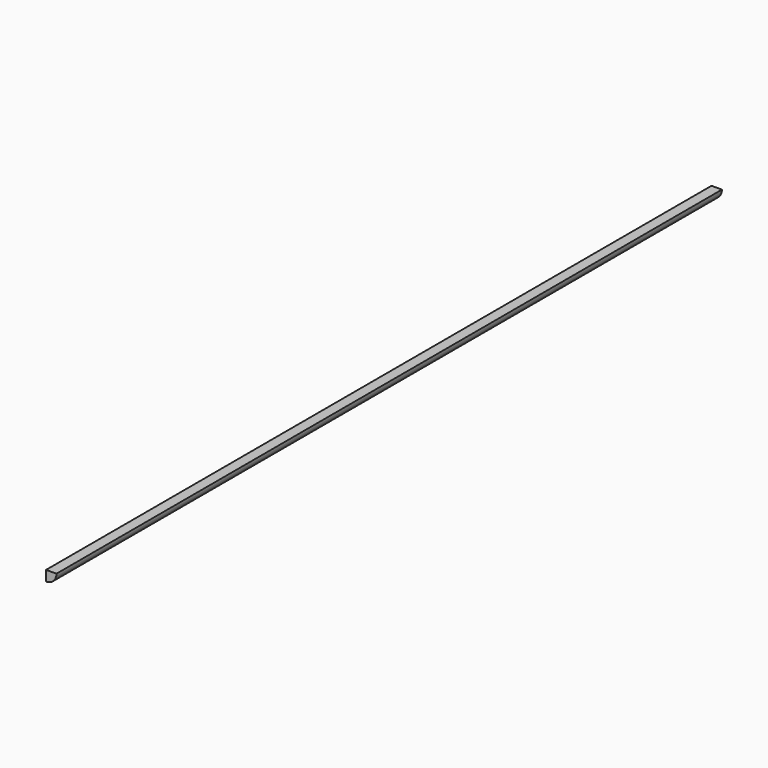
from build123d import *

# Parameters (mm, degrees)
F1_DEPTH = 1524


with BuildPart() as f1:
    # F0 (on Front) → F1 (new body)
    with BuildSketch(Plane.XZ):
        with BuildLine():
            Line((19.05, 0), (0, 0))
            Line((0, 0), (0, -19.05))
            ThreePointArc((0, -19.05), (13.470384, -13.470384), (19.05, 0))
        make_face()
    extrude(amount=F1_DEPTH)


solid = f1.part
